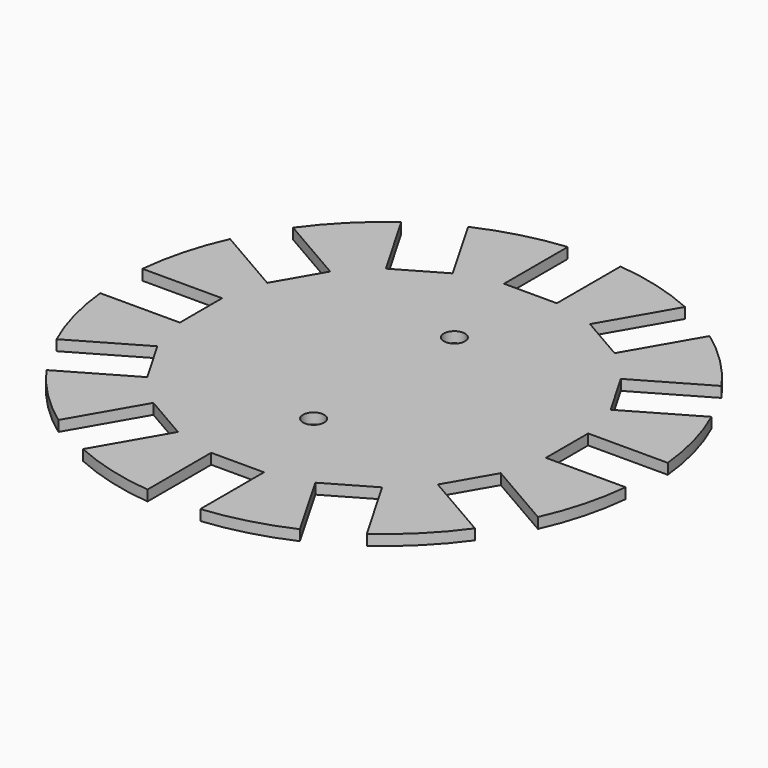
from build123d import *

# Parameters (mm, degrees)
SKETCH_R              = 150
PAD_DEPTH             = 6
SKETCH001_R           = 6
POCKET_DEPTH          = 854.613986
SKETCH002_W           = 30
SKETCH002_H           = 46
POCKET001_DEPTH       = 854.613986
POLARPATTERN_COUNT    = 12
POLARPATTERN001_COUNT = 2


with BuildPart() as part:
    # Sketch → Pad (new body)
    with BuildSketch(Plane.XY):
        Circle(SKETCH_R)
    extrude(amount=PAD_DEPTH)

    # Sketch001 (on Face3 of Pad) → Pocket (cut, through all)
    with BuildSketch(Plane.XY.offset(6)):
        with Locations((0, 50)):
            Circle(SKETCH001_R)
    pocket = extrude(amount=-POCKET_DEPTH, mode=Mode.SUBTRACT)

    # Sketch002 (on Face3 of Pocket) → Pocket001 (cut, through all)
    with BuildSketch(Plane.XY.offset(6)):
        with Locations((0, 127)):
            Rectangle(SKETCH002_W, SKETCH002_H)
    pocket001 = extrude(amount=-POCKET001_DEPTH, mode=Mode.SUBTRACT)

    # PolarPattern: Pocket001 ×12 about axis
    polarpattern_axis = Axis((0, 0, 6), (0, 0, 1))
    for i in range(1, POLARPATTERN_COUNT):
        add(pocket001.rotate(polarpattern_axis, i * 360 / POLARPATTERN_COUNT), mode=Mode.SUBTRACT)

    # PolarPattern001: Pocket ×2 about axis
    polarpattern001_axis = Axis((0, 0, 6), (0, 0, 1))
    for i in range(1, POLARPATTERN001_COUNT):
        add(pocket.rotate(polarpattern001_axis, i * 360 / POLARPATTERN001_COUNT), mode=Mode.SUBTRACT)


solid = part.part
